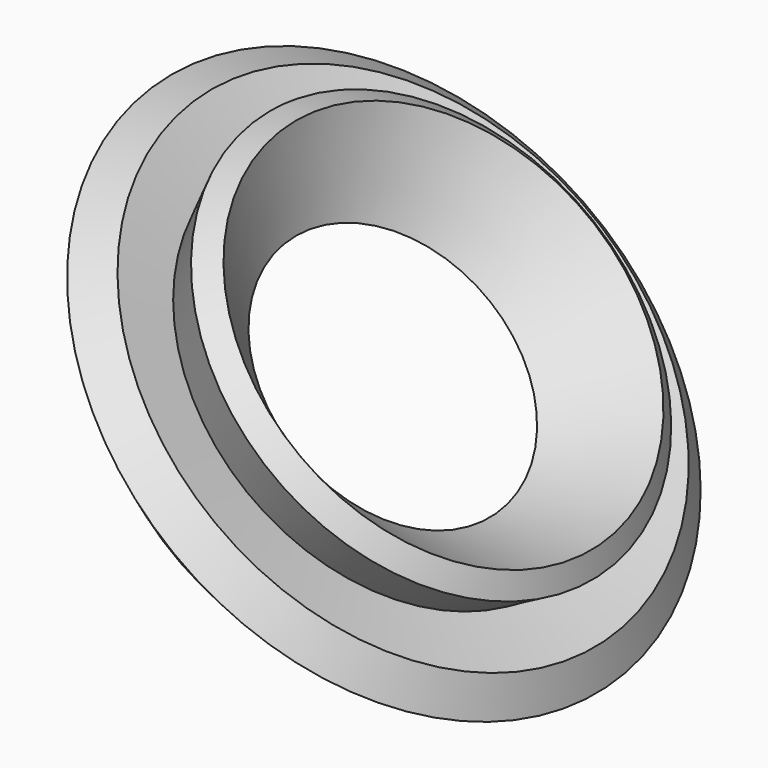
from build123d import *

# Parameters (mm, degrees)
F0_W = 346.480667
F0_H = 282.655329


with BuildPart() as f1:
    # F0 (on Front) → F1 (revolve)
    with BuildSketch(Plane.XZ):
        with Locations((665.696115, -540.136292)):
            Rectangle(F0_W, F0_H)
    revolve(axis=Axis((1232.59612, 0, -809.750211), (0.69212, 0, 0.721782)))

    # F2 (on Front) → F3 (revolve, cut)
    with BuildSketch(Plane.XZ):
        Polygon((834.37258, -259.995311), (527.884305, -291.429967), (700.775146, -535.048842), align=None)
    revolve(axis=Axis((1232.59612, 0, -809.750211), (0.69212, 0, 0.721782)), mode=Mode.SUBTRACT)


solid = f1.part
